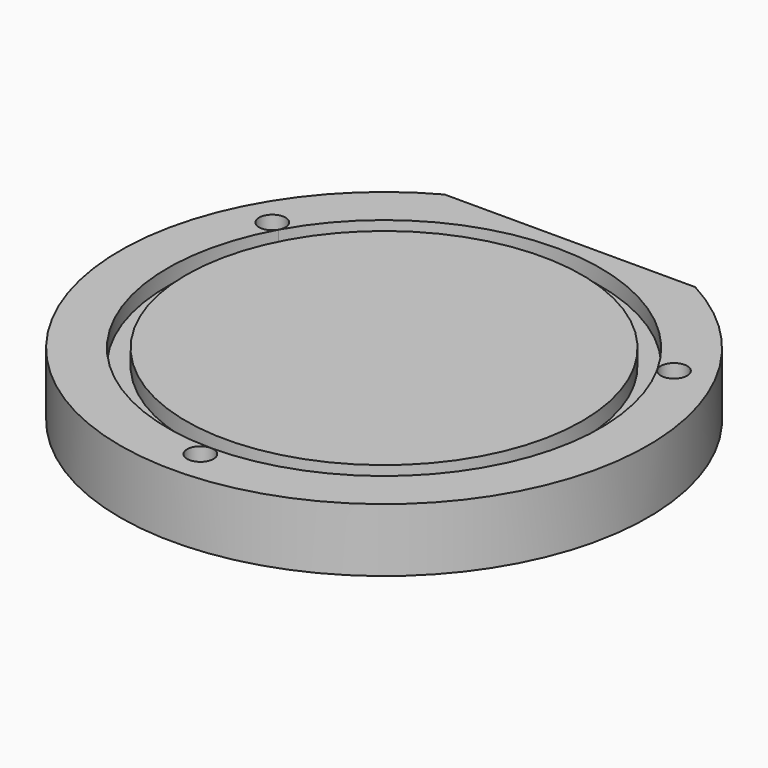
from build123d import *

# Parameters (mm, degrees)
CYLINDER007_R               = 5
CYLINDER007_DEPTH           = 5
COMPOUND003_PLACEMENT_ANGLE = 119
CYLINDER008_R               = 5
CYLINDER008_DEPTH           = 6
COMPOUND004_PLACEMENT_ANGLE = 119
CYLINDER006_R               = 5
CYLINDER006_DEPTH           = 6
CYLINDER004_R               = 2.5
CYLINDER004_DEPTH           = 12
COMPOUND_PLACEMENT_ANGLE    = 119
CYLINDER005_R               = 2.5
CYLINDER005_DEPTH           = 12
COMPOUND001_PLACEMENT_ANGLE = 241
CYLINDER003_R               = 2.5
CYLINDER003_DEPTH           = 12
BOX_W                       = 200
BOX_H                       = 100
BOX_DEPTH                   = 12
CYLINDER001_R               = 37.5
CYLINDER001_DEPTH           = 3
CYLINDER002_R               = 41
CYLINDER002_DEPTH           = 3
CYLINDER_R                  = 50
CYLINDER_DEPTH              = 12


with BuildPart() as compound003:
    # Cylinder007 → Cylinder007 (new body)
    with BuildSketch(Plane(origin=(0, -43.5, 0), x_dir=(1, 0, 0), z_dir=(0, 0, 1))):
        Circle(CYLINDER007_R)
    extrude(amount=CYLINDER007_DEPTH)


with BuildPart() as compound003_1:
    # Compound003 placement: moved
    add(compound003.part.rotate(Axis((0, 0, 0), (0, 0, 1)), COMPOUND003_PLACEMENT_ANGLE))


with BuildPart() as compound004:
    # Cylinder008 → Cylinder008 (new body)
    with BuildSketch(Plane(origin=(0, -43.5, 0), x_dir=(1, 0, 0), z_dir=(0, 0, 1))):
        Circle(CYLINDER008_R)
    extrude(amount=CYLINDER008_DEPTH)


with BuildPart() as compound004_1:
    # Compound004 placement: moved
    add(compound004.part.rotate(Axis((0, 0, 0), (0, 0, -1)), COMPOUND004_PLACEMENT_ANGLE))


with BuildPart() as compound005:
    # Cylinder006 → Cylinder006 (new body)
    with BuildSketch(Plane(origin=(0, -43.5, 0), x_dir=(1, 0, 0), z_dir=(0, 0, 1))):
        Circle(CYLINDER006_R)
    extrude(amount=CYLINDER006_DEPTH)

    # Compound005: union Compound003, Compound004
    add(compound003_1.part)
    add(compound004_1.part)


with BuildPart() as compound:
    # Cylinder004 → Cylinder004 (new body)
    with BuildSketch(Plane(origin=(0, -43.5, 0), x_dir=(1, 0, 0), z_dir=(0, 0, 1))):
        Circle(CYLINDER004_R)
    extrude(amount=CYLINDER004_DEPTH)


with BuildPart() as compound_1:
    # Compound placement: moved
    add(compound.part.rotate(Axis((0, 0, 0), (0, 0, 1)), COMPOUND_PLACEMENT_ANGLE))


with BuildPart() as compound001:
    # Cylinder005 → Cylinder005 (new body)
    with BuildSketch(Plane(origin=(0, -43.5, 0), x_dir=(1, 0, 0), z_dir=(0, 0, 1))):
        Circle(CYLINDER005_R)
    extrude(amount=CYLINDER005_DEPTH)


with BuildPart() as compound001_1:
    # Compound001 placement: moved
    add(compound001.part.rotate(Axis((0, 0, 0), (0, 0, 1)), COMPOUND001_PLACEMENT_ANGLE))


with BuildPart() as compound002:
    # Cylinder003 → Cylinder003 (new body)
    with BuildSketch(Plane(origin=(0, -43.5, 0), x_dir=(1, 0, 0), z_dir=(0, 0, 1))):
        Circle(CYLINDER003_R)
    extrude(amount=CYLINDER003_DEPTH)

    # Compound002: union Compound, Compound001
    add(compound_1.part)
    add(compound001_1.part)


with BuildPart() as cube:
    # Box → Box (new body)
    with BuildSketch(Plane(origin=(-100, 44, 0), x_dir=(1, 0, 0), z_dir=(0, 0, 1))):
        with Locations((100, 50)):
            Rectangle(BOX_W, BOX_H)
    extrude(amount=BOX_DEPTH)


with BuildPart() as cylinder001:
    # Cylinder001 → Cylinder001 (new body)
    with BuildSketch(Plane.XY):
        Circle(CYLINDER001_R)
    extrude(amount=CYLINDER001_DEPTH)


with BuildPart() as cut:
    # Cylinder002 → Cylinder002 (new body)
    with BuildSketch(Plane.XY):
        Circle(CYLINDER002_R)
    extrude(amount=CYLINDER002_DEPTH)

    # Cut: cut Cylinder001
    add(cylinder001.part, mode=Mode.SUBTRACT)


with BuildPart() as cut_1:
    # Cut placement: moved
    add(cut.part.moved(Location((0, 0, 9))))


with BuildPart() as xl30topbackflange100:
    # Cylinder → Cylinder (new body)
    with BuildSketch(Plane.XY):
        Circle(CYLINDER_R)
    extrude(amount=CYLINDER_DEPTH)

    # Cut001: cut Cut
    add(cut_1.part, mode=Mode.SUBTRACT)

    # Cut002: cut Cube
    add(cube.part, mode=Mode.SUBTRACT)

    # Cut003: cut Compound002
    add(compound002.part, mode=Mode.SUBTRACT)

    # Cut004: cut Compound005
    add(compound005.part, mode=Mode.SUBTRACT)


solid = xl30topbackflange100.part
